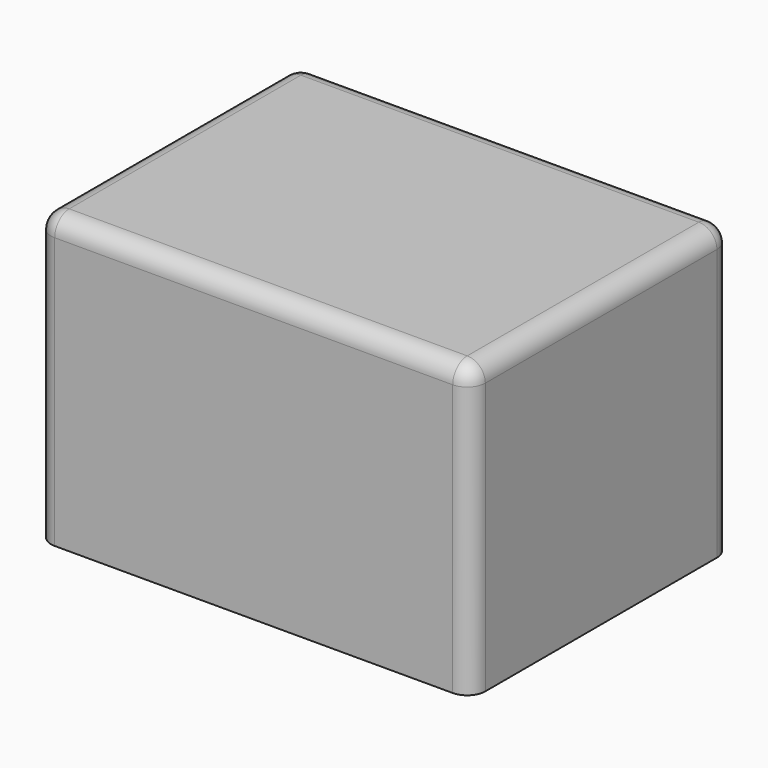
from build123d import *

# Parameters (mm, degrees)
F0_W     = 120
F0_H     = 90
F1_DEPTH = 80
F2_R     = 5
F3_T     = -3
F5_DEPTH = 1


with BuildPart() as f1:
    # F0 (on Top) → F1 (new body)
    with BuildSketch(Plane.XY):
        Rectangle(F0_W, F0_H)
    extrude(amount=F1_DEPTH)

    # F2
    f2_edges = [f1.edges().sort_by_distance(p)[0] for p in [
        (60, -45, 40),
        (-60, -45, 40),
        (0, -45, 80),
        (60, 0, 80),
        (60, 45, 40),
        (0, 45, 80),
        (-60, 0, 80),
        (-60, 45, 40),
    ]]
    fillet(f2_edges, radius=F2_R)

    # F3
    f3_openings = [f1.faces().sort_by_distance(p)[0] for p in [
        (0, 0, 0),
    ]]
    offset(amount=F3_T, openings=f3_openings)

    # F4 (on face) → F5 (cut)
    with BuildSketch(Plane(origin=(0, 0, 0), x_dir=(1, 0, 0), z_dir=(0, 0, -1))):
        with BuildLine():
            ThreePointArc((58, 40), (57.12132, 42.12132), (55, 43))
            Line((55, 43), (-55, 43))
            ThreePointArc((-55, 43), (-57.12132, 42.12132), (-58, 40))
            Line((-58, 40), (-58, -40))
            ThreePointArc((-58, -40), (-57.12132, -42.12132), (-55, -43))
            Line((-55, -43), (55, -43))
            ThreePointArc((55, -43), (57.12132, -42.12132), (58, -40))
            Line((58, -40), (58, 40))
        make_face()
    extrude(amount=-F5_DEPTH, mode=Mode.SUBTRACT)


solid = f1.part
